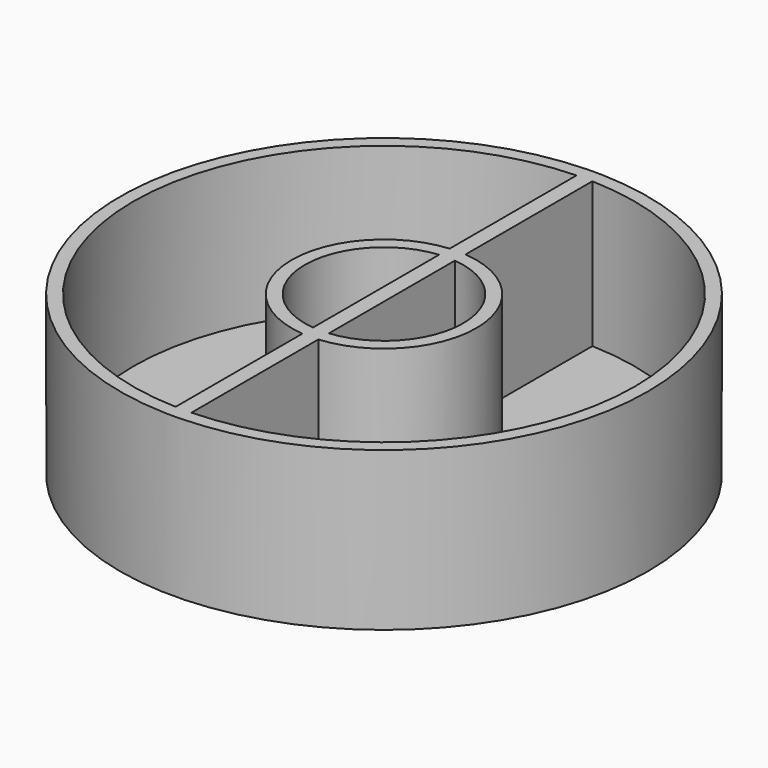
from build123d import *

# Parameters (mm, degrees)
F0_R     = 50
F0_R_2   = 15
F4_DEPTH = 30
F1_T     = -2.5
F2_W     = 3
F2_H     = 99.95499
F5_DEPTH = 27.5


with BuildPart() as f4:
    # F0 (on Top) → F4 (new body)
    with BuildSketch(Plane.XY):
        Circle(F0_R)
        Circle(F0_R_2, mode=Mode.SUBTRACT)
    extrude(amount=F4_DEPTH)

    # F1
    f1_openings = [f4.faces().sort_by_distance(p)[0] for p in [
        (-48.585786, 0, 30),
    ]]
    offset(amount=F1_T, openings=f1_openings)

    # F2 (on face) → F5 (join)
    with BuildSketch(Plane.XY.offset(2.5)):
        Rectangle(F2_W, F2_H)
    extrude(amount=F5_DEPTH)


solid = f4.part
